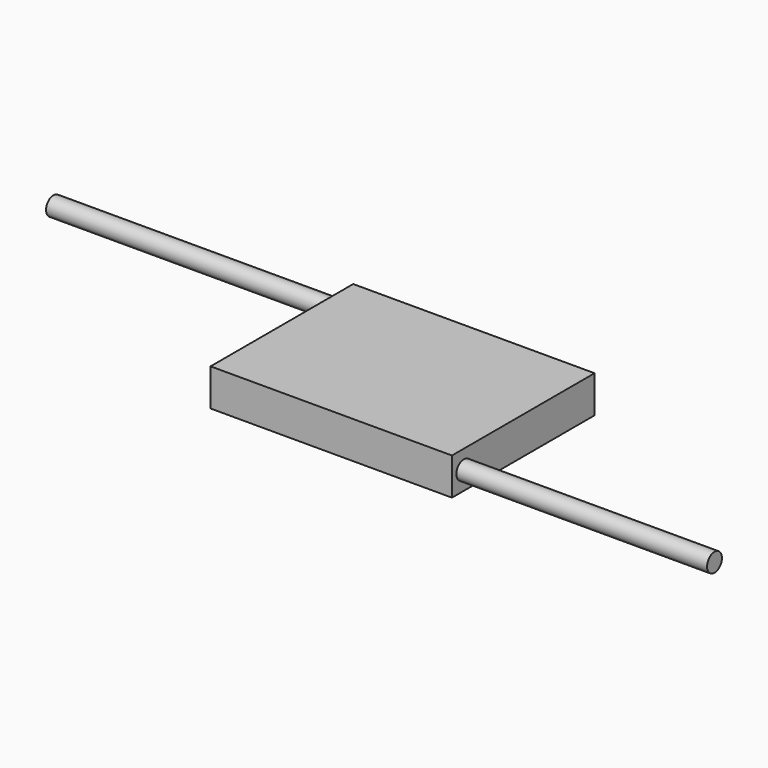
from build123d import *

# Parameters (mm, degrees)
CYLINDER002_R           = 0.25
CYLINDER002_DEPTH       = 10
CYLINDER002_PITCH_ANGLE = 90
CYLINDER001_R           = 0.25
CYLINDER001_DEPTH       = 10
CYLINDER001_PITCH_ANGLE = 90
BOX_W                   = 6.5
BOX_H                   = 4.8
BOX_DEPTH               = 1


with BuildPart() as cylinder002:
    # Cylinder002 → Cylinder002 (new body)
    with BuildSketch(Plane.XY):
        Circle(CYLINDER002_R)
    extrude(amount=CYLINDER002_DEPTH)


with BuildPart() as cylinder002_1:
    # Cylinder002 pitch: moved
    add(cylinder002.part.rotate(Axis((0, 0, 0), (0, 1, 0)), CYLINDER002_PITCH_ANGLE))


with BuildPart() as cylinder002_2:
    # Cylinder002 placement: moved
    add(cylinder002_1.part.moved(Location((0, -2, -3.7))))


with BuildPart() as fusion002:
    # Cylinder001 → Cylinder001 (new body)
    with BuildSketch(Plane.XY):
        Circle(CYLINDER001_R)
    extrude(amount=CYLINDER001_DEPTH)


with BuildPart() as fusion002_1:
    # Cylinder001 pitch: moved
    add(fusion002.part.rotate(Axis((0, 0, 0), (0, 1, 0)), CYLINDER001_PITCH_ANGLE))


with BuildPart() as fusion002_2:
    # Cylinder001 placement: moved
    add(fusion002_1.part.moved(Location((-11, 2, -3.7))))

    # Fusion002: union Cylinder002
    add(cylinder002_2.part)


with BuildPart() as switch:
    # Box → Box (new body)
    with BuildSketch(Plane(origin=(-3.25, -2.4, -4.2), x_dir=(1, 0, 0), z_dir=(0, 0, 1))):
        with Locations((3.25, 2.4)):
            Rectangle(BOX_W, BOX_H)
    extrude(amount=BOX_DEPTH)

    # Fusion003: union Fusion002
    add(fusion002_2.part)


solid = switch.part
